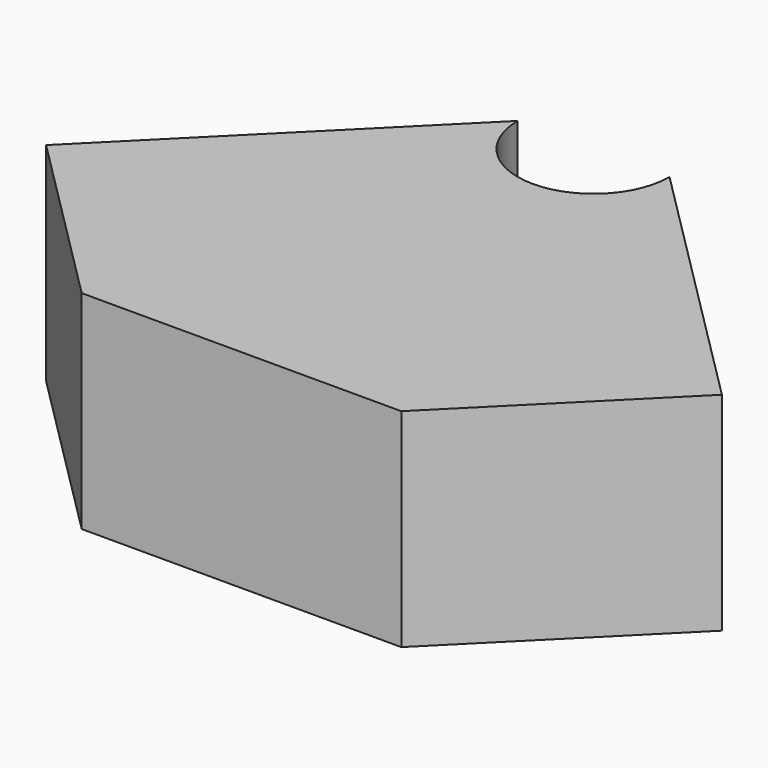
from build123d import *

# Parameters (mm, degrees)
F1_DEPTH = 13
F2_W     = 1.5
F2_H     = 3


with BuildPart() as f1:
    # F0 (on Top) → F1 (new body)
    with BuildSketch(Plane.XY):
        with BuildLine():
            Line((21.15, 11.15), (4.75, 27.55))
            ThreePointArc((4.75, 27.55), (0, 22.8), (-4.75, 27.55))
            Line((-4.75, 27.55), (-21.15, 11.15))
            Line((-21.15, 11.15), (-10, 0))
            Line((-10, 0), (0, 0))
            Line((0, 0), (10, 0))
            Line((10, 0), (21.15, 11.15))
        make_face()
    extrude(amount=F1_DEPTH)

    # F3: sweep along a path in F3_path
    with BuildLine(Plane(origin=(-4.75, 27.55, 13), x_dir=(0, -1, 0), z_dir=(0, 0, -1))) as f3_path:
        ThreePointArc((0, 0), (4.75, -4.75), (0, -9.5))
    # F2 (on face) → F3 (sweep, cut)
    with BuildSketch(Plane(origin=(16.15, 16.15, 0), x_dir=(-0.7071067812, 0.7071067812, 0), z_dir=(0.7071067812, 0.7071067812, 0))):
        with Locations((12.3720346111, 6.5)):
            Rectangle(F2_W, F2_H)
    sweep(path=f3_path.line, mode=Mode.SUBTRACT)


solid = f1.part
